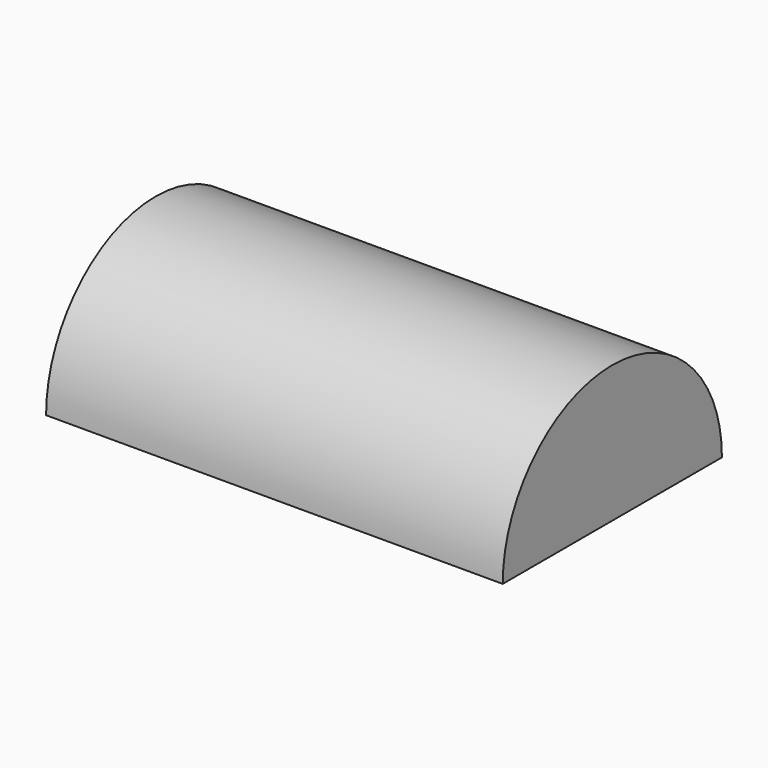
from build123d import *

# Parameters (mm, degrees)
F0_W     = 100
F0_H     = 30
F1_ANGLE = -180


with BuildPart() as f1:
    # F0 (on Front) → F1 (revolve, symmetric)
    with BuildSketch(Plane.XZ) as f1_sk:
        with Locations((-1.946901, 15)):
            Rectangle(F0_W, F0_H)
    revolve(axis=Axis((-1.946901, 0, 0), (1, 0, 0)), revolution_arc=F1_ANGLE / 2)
    revolve(f1_sk.sketch, axis=Axis((-1.946901, 0, 0), (-1, 0, 0)), revolution_arc=F1_ANGLE / 2)


solid = f1.part
